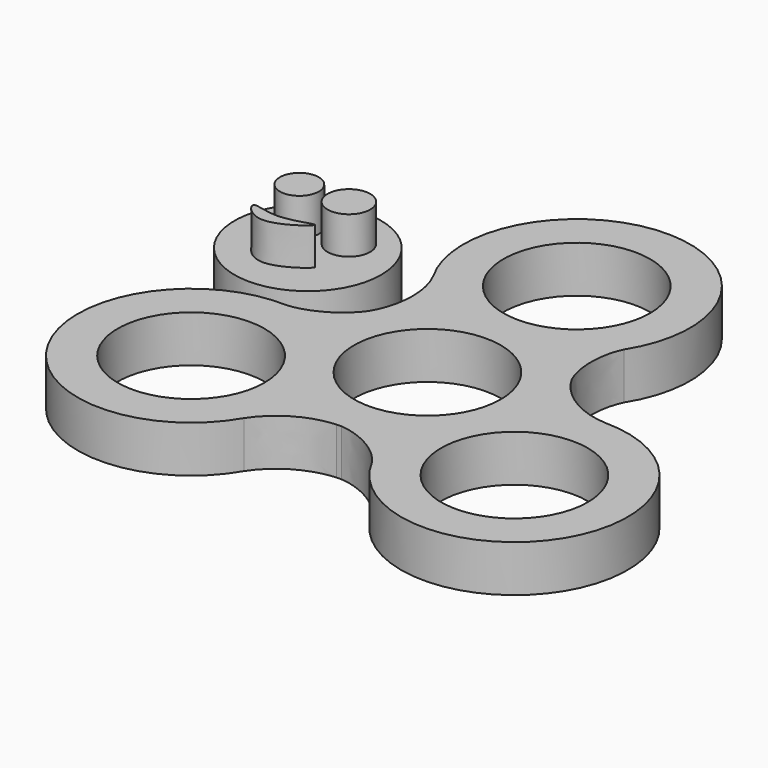
from build123d import *

# Parameters (mm, degrees)
F1_DEPTH = 7
F2_R     = 11
F3_DEPTH = 25
F4_COUNT = 3
F5_R     = 11
F6_DEPTH = 7
F7_R     = 2.9209319817
F7_R_2   = 3.1942730589
F8_DEPTH = 5.6


with BuildPart() as f1:
    # F0 (on Top) → F1 (new body)
    with BuildSketch(Plane.XY):
        with BuildLine():
            add(Edge.make_bspline(
                [(-14.7224318643, 19.5), (-12.9999999937, 16.1170820607), (-12.9999999593, 11.8829179345), (-14.7224318643, 8.5)],
                knots=[0, 0, 0, 0, 11, 11, 11, 11], degree=3))
            ThreePointArc((-14.7224318643, 8.5), (0.356387181, -16.9962639476), (14.3531823629, 9.1096737625))
            add(Edge.make_bspline(
                [(14.3531822417, 18.8903260467), (13.0000000063, 16.117), (13.0000000407, 11.883), (14.3531823629, 9.1096737625)],
                knots=[0, 0, 0, 0, 9.7806522842, 9.7806522842, 9.7806522842, 9.7806522842], degree=3))
            ThreePointArc((14.3531822417, 18.8903260467), (0.3563872939, 44.9962639453), (-14.7224318643, 19.5))
        make_face()
    extrude(amount=F1_DEPTH)

    # F2 (on face) → F3 (cut)
    with BuildSketch(Plane(origin=(0, 0, 0), x_dir=(1, 0, 0), z_dir=(0, 0, -1))):
        Circle(F2_R)
        with Locations((0, -28)):
            Circle(F2_R)
    extrude(amount=-F3_DEPTH, mode=Mode.SUBTRACT)

    # F4: F1 ×3 about axis
    f4_axis = Axis((0, 0, 7), (0, 0, -1))


with BuildPart() as f1_1:
    add(f1.part)
    for i in range(1, F4_COUNT):
        add(f1.part.rotate(f4_axis, i * 360 / F4_COUNT))


with BuildPart() as f6:
    # F5 (on Top) → F6 (new body)
    with BuildSketch(Plane.XY):
        with Locations((-53.4641593695, 44.5068143308)):
            Circle(F5_R)
    extrude(amount=F6_DEPTH)

    # F7 (on face) → F8 (join)
    with BuildSketch(Plane.XY.offset(7)):
        with Locations((-57.5696118176, 48.0524301529)):
            Circle(F7_R)
        with Locations((-50.2917692065, 48.2390448451)):
            Circle(F7_R_2)
        with BuildLine():
            add(Edge.make_bspline(
                [(-58.5026666522, 40.5879765749), (-58.6858223111, 40.1480192994), (-55.6378351034, 36.2600606178), (-46.8642993602, 42.9150248923), (-54.4710671501, 39.1649710468), (-58.3101757285, 41.0503580424), (-58.5026666522, 40.5879765749)],
                knots=[0, 0, 0, 0, 0.2226061648, 0.5147141916, 0.7660478168, 1, 1, 1, 1], degree=3))
        make_face()
    extrude(amount=F8_DEPTH)


with BuildPart() as f6_1:
    # F9: moved
    add(f6.part.moved(Location((22.8, -28.6, 0))))


solid = Compound([f1_1.part, f6_1.part])
